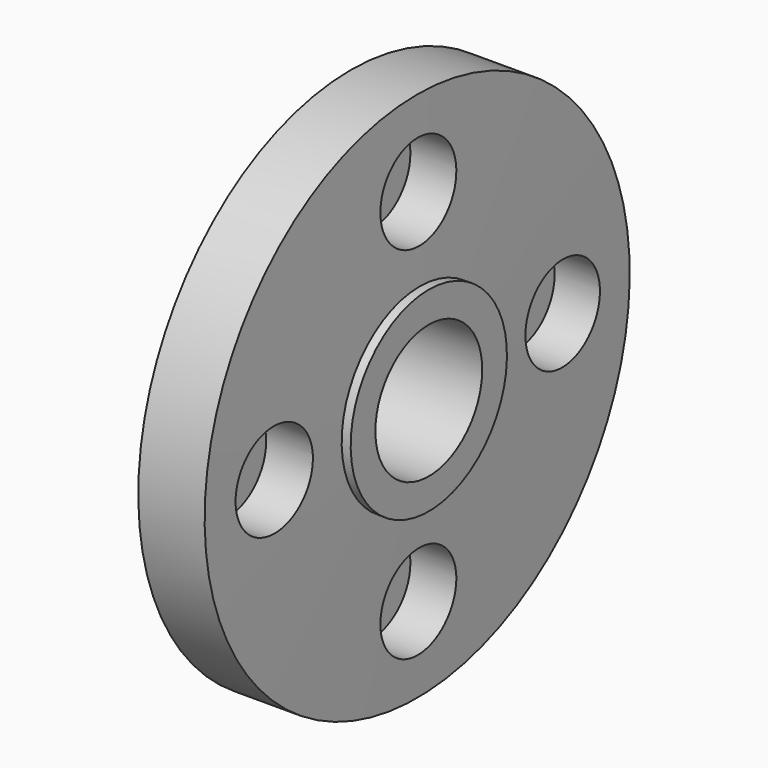
from build123d import *

# Parameters (mm, degrees)
F2_R     = 7.9375
F3_DEPTH = 9.42848


with BuildPart() as f1:
    # F0 (on Front) → F1 (revolve)
    with BuildSketch(Plane.XZ):
        Polygon((-6.44752, 15.0876), (-6.44752, 11.176), (9.42748, 11.176), (9.42748, 16.34203), (7.903651, 16.319176), (7.48175, 44.45), (-3.61805, 44.45), (-3.61805, 15.0876), align=None)
    revolve(axis=Axis((0.264553, 0, 0), (1, 0, 0)))

    # F2 (on Right) → F3 (cut, through all)
    with BuildSketch(Plane.YZ):
        with Locations((0, 30.1625)):
            Circle(F2_R)
        with Locations((-30.1625, 0)):
            Circle(F2_R)
        with Locations((0, -30.1625)):
            Circle(F2_R)
        with Locations((30.1625, 0)):
            Circle(F2_R)
    extrude(amount=F3_DEPTH, mode=Mode.SUBTRACT)


solid = f1.part
